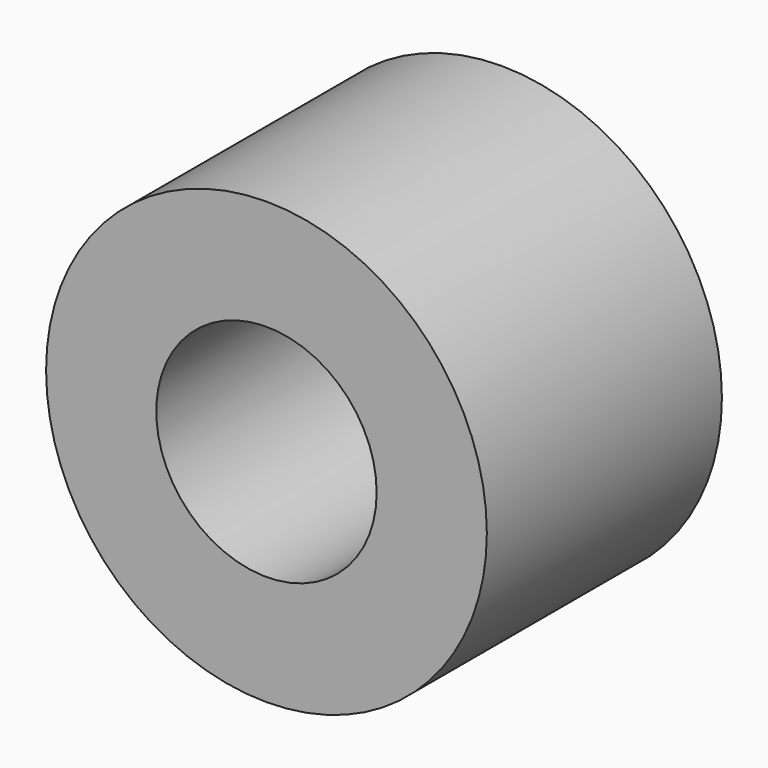
from build123d import *

# Parameters (mm, degrees)
F0_R     = 75
F2_DEPTH = 100
F1_R     = 37.5
F3_DEPTH = 100.001


with BuildPart() as f2:
    # F0 (on Front) → F2 (new body)
    with BuildSketch(Plane.XZ):
        Circle(F0_R)
    extrude(amount=F2_DEPTH)

    # F1 (on face) → F3 (cut, through all)
    with BuildSketch(Plane.XZ):
        Circle(F1_R)
    extrude(amount=F3_DEPTH, mode=Mode.SUBTRACT)


solid = f2.part
